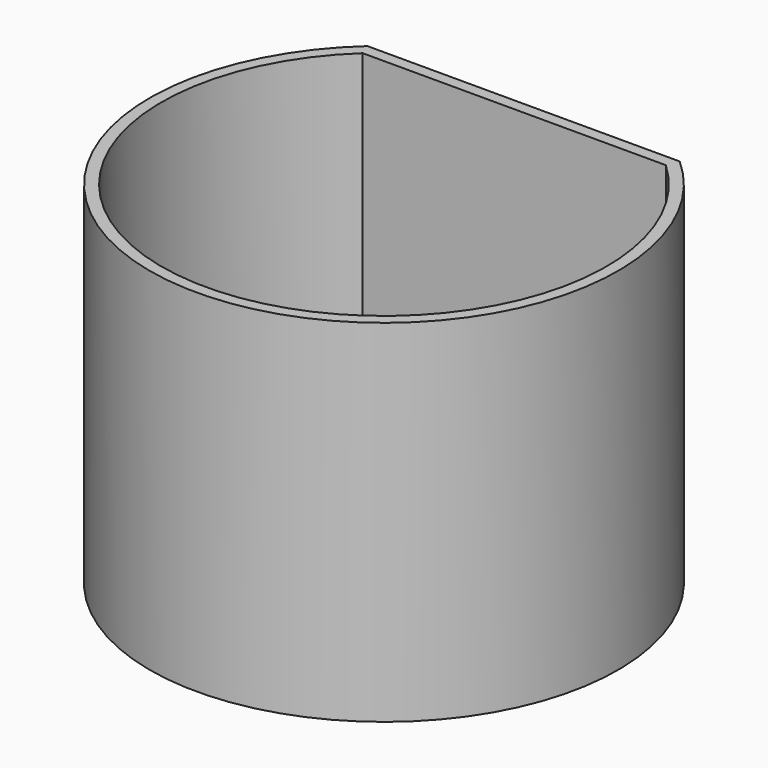
from build123d import *

# Parameters (mm, degrees)
F1_DEPTH = 20
F3_DEPTH = 70


with BuildPart() as f1:
    # F0 (on Top) → F1 (new body)
    with BuildSketch(Plane.XY):
        with BuildLine():
            Line((40, 44.72136), (-40, 44.72136))
            ThreePointArc((-40, 44.72136), (0, -60), (40, 44.72136))
        make_face()
    extrude(amount=F1_DEPTH)

    # F2 (on face) → F3 (join)
    with BuildSketch(Plane.XY.offset(20)):
        with BuildLine():
            Line((40, 44.72136), (-40, 44.72136))
            ThreePointArc((-40, 44.72136), (0, -60), (40, 44.72136))
        make_face()
        with BuildLine():
            ThreePointArc((38.837201, 41.72136), (0, -57), (-38.837201, 41.72136))
            Line((-38.837201, 41.72136), (38.837201, 41.72136))
        make_face(mode=Mode.SUBTRACT)
    extrude(amount=F3_DEPTH)


solid = f1.part
